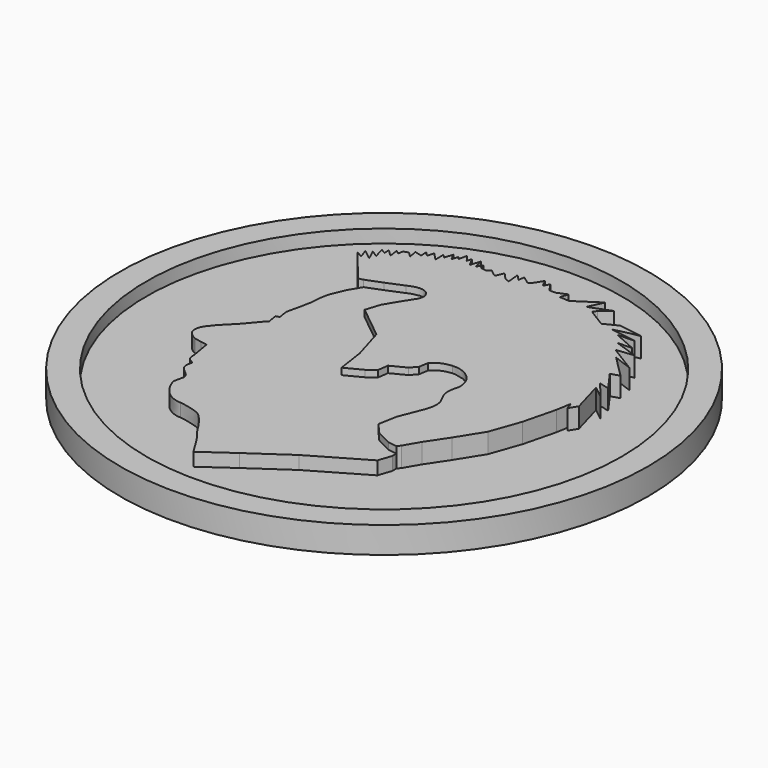
from build123d import *

# Parameters (mm, degrees)
EXTRUDE001_DEPTH  = 1.5
EXTRUDE_DEPTH     = 1
CYLINDER001_R     = 18
CYLINDER001_DEPTH = 2
CYLINDER_R        = 20
CYLINDER_DEPTH    = 2


with BuildPart() as extrude001:
    # Wire001 → Extrude001 (new body)
    with BuildSketch(Plane(origin=(21.008593, -16.806553, 0), x_dir=(0, 1, 0), z_dir=(0, 0, 1))):
        with BuildLine():
            add(Edge.make_bspline(
                [(-0.928441, -10.820515), (-0.313374, -11.198701)],
                knots=[0, 0, 2.558385, 2.558385], degree=1))
            add(Edge.make_bspline(
                [(-0.313374, -11.198701), (2.194207, -10.489603)],
                knots=[0, 0, 9.23355, 9.23355], degree=1))
            add(Edge.make_bspline(
                [(2.194207, -10.489603), (1.484514, -11.387793)],
                knots=[0, 0, 4.056132, 4.056132], degree=1))
            add(Edge.make_bspline(
                [(1.484514, -11.387793), (2.761956, -10.347784)],
                knots=[0, 0, 5.83676, 5.83676], degree=1))
            add(Edge.make_bspline(
                [(2.761956, -10.347784), (2.572715, -11.104154)],
                knots=[0, 0, 2.76266, 2.76266], degree=1))
            add(Edge.make_bspline(
                [(2.572715, -11.104154), (4.086722, -10.01687)],
                knots=[0, 0, 6.604635, 6.604635], degree=1))
            add(Edge.make_bspline(
                [(4.086722, -10.01687), (4.275983, -10.678695)],
                knots=[0, 0, 2.439053, 2.439053], degree=1))
            add(Edge.make_bspline(
                [(4.275983, -10.678695), (5.93193, -9.024136)],
                knots=[0, 0, 8.294462, 8.294462], degree=1))
            add(Edge.make_bspline(
                [(5.93193, -9.024136), (5.411478, -10.442331)],
                knots=[0, 0, 5.352794, 5.352794], degree=1))
            add(Edge.make_bspline(
                [(5.411478, -10.442331), (6.688937, -8.362314)],
                knots=[0, 0, 8.649135, 8.649135], degree=1))
            add(Edge.make_bspline(
                [(6.688937, -8.362314), (6.830884, -9.685961)],
                knots=[0, 0, 4.716981, 4.716981], degree=1))
            add(Edge.make_bspline(
                [(6.830884, -9.685961), (7.44595, -7.936858)],
                knots=[0, 0, 6.569629, 6.569629], degree=1))
            add(Edge.make_bspline(
                [(7.44595, -7.936858), (7.493254, -8.976864)],
                knots=[0, 0, 3.68887, 3.68887], degree=1))
            add(Edge.make_bspline(
                [(7.493254, -8.976864), (8.250264, -7.275033)],
                knots=[0, 0, 6.599778, 6.599778], degree=1))
            add(Edge.make_bspline(
                [(8.250264, -7.275033), (8.297584, -8.504133)],
                knots=[0, 0, 4.358306, 4.358306], degree=1))
            add(Edge.make_bspline(
                [(8.297584, -8.504133), (8.297584, -8.504133), (8.534146, -6.802299), (8.581452, -6.613208)],
                knots=[0, 0, 0, 0, 1, 1, 1, 1], degree=3))
            add(Edge.make_bspline(
                [(8.581452, -6.613208), (8.628772, -6.424116), (9.007274, -8.456858), (9.007274, -8.456858)],
                knots=[0, 0, 0, 0, 1, 1, 1, 1], degree=3))
            add(Edge.make_bspline(
                [(9.007274, -8.456858), (9.291142, -6.660483)],
                knots=[0, 0, 6.444092, 6.444092], degree=1))
            add(Edge.make_bspline(
                [(9.291142, -6.660483), (8.770713, -5.620471)],
                knots=[0, 0, 4.120716, 4.120716], degree=1))
            add(Edge.make_bspline(
                [(8.770713, -5.620471), (9.622344, -4.249551)],
                knots=[0, 0, 5.718569, 5.718569], degree=1))
            add(Edge.make_bspline(
                [(9.622344, -4.249551), (9.906208, -4.438646)],
                knots=[0, 0, 1.208553, 1.208553], degree=1))
            add(Edge.make_bspline(
                [(9.906208, -4.438646), (10.521281, -5.195013)],
                knots=[0, 0, 3.454324, 3.454324], degree=1))
            add(Edge.make_bspline(
                [(10.521281, -5.195013), (9.906208, -3.587729)],
                knots=[0, 0, 6.097861, 6.097861], degree=1))
            add(Edge.make_bspline(
                [(9.906208, -3.587729), (11.041729, -4.107729)],
                knots=[0, 0, 4.425317, 4.425317], degree=1))
            add(Edge.make_bspline(
                [(11.041729, -4.107729), (9.858908, -2.311356)],
                knots=[0, 0, 7.621012, 7.621012], degree=1))
            add(Edge.make_bspline(
                [(9.858908, -2.311356), (9.906208, -1.578623)],
                knots=[0, 0, 2.601704, 2.601704], degree=1))
            add(Edge.make_bspline(
                [(9.906208, -1.578623), (10.497628, -1.767712)],
                knots=[0, 0, 2.200081, 2.200081], degree=1))
            add(Edge.make_bspline(
                [(10.497628, -1.767712), (10.190096, -1.034978)],
                knots=[0, 0, 2.815702, 2.815702], degree=1))
            add(Edge.make_bspline(
                [(10.190096, -1.034978), (10.190096, -0.562247)],
                knots=[0, 0, 1.67503, 1.67503], degree=1))
            add(Edge.make_bspline(
                [(10.190096, -0.562247), (10.828815, -0.113153)],
                knots=[0, 0, 2.766614, 2.766614], degree=1))
            add(Edge.make_bspline(
                [(10.828815, -0.113153), (10.403007, 0.123208)],
                knots=[0, 0, 1.725628, 1.725628], degree=1))
            add(Edge.make_bspline(
                [(10.403007, 0.123208), (10.970756, 0.406847)],
                knots=[0, 0, 2.248787, 2.248787], degree=1))
            add(Edge.make_bspline(
                [(10.970756, 0.406847), (10.970756, 0.406847), (10.16644, 0.855945), (10.16644, 0.997761)],
                knots=[0, 0, 0, 0, 1, 1, 1, 1], degree=3))
            add(Edge.make_bspline(
                [(10.16644, 0.997761), (10.16644, 1.139584), (10.213746, 1.16322), (10.213746, 1.16322)],
                knots=[0, 0, 0, 0, 1, 1, 1, 1], degree=3))
            add(Edge.make_bspline(
                [(10.213746, 1.16322), (10.568601, 1.635951)],
                knots=[0, 0, 2.09444, 2.09444], degree=1))
            add(Edge.make_bspline(
                [(10.568601, 1.635951), (10.095472, 1.706862)],
                knots=[0, 0, 1.695164, 1.695164], degree=1))
            add(Edge.make_bspline(
                [(10.095472, 1.706862), (10.544945, 2.13232)],
                knots=[0, 0, 2.192963, 2.192963], degree=1))
            add(Edge.make_bspline(
                [(10.544945, 2.13232), (9.575026, 2.037773)],
                knots=[0, 0, 3.45301, 3.45301], degree=1))
            add(Edge.make_bspline(
                [(9.575026, 2.037773), (9.74062, 2.415959)],
                knots=[0, 0, 1.462859, 1.462859], degree=1))
            add(Edge.make_bspline(
                [(9.74062, 2.415959), (10.23741, 2.865054)],
                knots=[0, 0, 2.372922, 2.372922], degree=1))
            add(Edge.make_bspline(
                [(10.23741, 2.865054), (9.669647, 3.125054)],
                knots=[0, 0, 2.212668, 2.212668], degree=1))
            add(Edge.make_bspline(
                [(9.669647, 3.125054), (9.693297, 3.243237)],
                knots=[0, 0, 0.427062, 0.427062], degree=1))
            add(Edge.make_bspline(
                [(9.693297, 3.243237), (10.071788, 3.715968)],
                knots=[0, 0, 2.145764, 2.145764], degree=1))
            add(Edge.make_bspline(
                [(10.071788, 3.715968), (9.835224, 3.999607)],
                knots=[0, 0, 1.308693, 1.308693], degree=1))
            add(Edge.make_bspline(
                [(9.835224, 3.999607), (9.906194, 4.401429)],
                knots=[0, 0, 1.445817, 1.445817], degree=1))
            add(Edge.make_bspline(
                [(9.906194, 4.401429), (10.261049, 4.495976)],
                knots=[0, 0, 1.301225, 1.301225], degree=1))
            add(Edge.make_bspline(
                [(10.261049, 4.495976), (9.811574, 4.755977)],
                knots=[0, 0, 1.839889, 1.839889], degree=1))
            add(Edge.make_bspline(
                [(9.811574, 4.755977), (10.544931, 4.921432)],
                knots=[0, 0, 2.663823, 2.663823], degree=1))
            add(Edge.make_bspline(
                [(10.544931, 4.921432), (9.787923, 5.157796)],
                knots=[0, 0, 2.81002, 2.81002], degree=1))
            add(Edge.make_bspline(
                [(9.787923, 5.157796), (10.450296, 5.512346)],
                knots=[0, 0, 2.662067, 2.662067], degree=1))
            add(Edge.make_bspline(
                [(10.450296, 5.512346), (10.095455, 5.63053)],
                knots=[0, 0, 1.325213, 1.325213], degree=1))
            add(Edge.make_bspline(
                [(10.095455, 5.63053), (10.615887, 6.008716)],
                knots=[0, 0, 2.279518, 2.279518], degree=1))
            add(Edge.make_bspline(
                [(10.615887, 6.008716), (9.953514, 6.150533)],
                knots=[0, 0, 2.400181, 2.400181], degree=1))
            add(Edge.make_bspline(
                [(9.953514, 6.150533), (10.190082, 6.315988)],
                knots=[0, 0, 1.022903, 1.022903], degree=1))
            add(Edge.make_bspline(
                [(10.190082, 6.315988), (9.693297, 6.45781)],
                knots=[0, 0, 1.830585, 1.830585], degree=1))
            add(Edge.make_bspline(
                [(9.693297, 6.45781), (10.213729, 6.741449)],
                knots=[0, 0, 2.100139, 2.100139], degree=1))
            add(Edge.make_bspline(
                [(10.213729, 6.741449), (9.598662, 6.930538)],
                knots=[0, 0, 2.280034, 2.280034], degree=1))
            add(Edge.make_bspline(
                [(9.598662, 6.930538), (9.835224, 7.190538)],
                knots=[0, 0, 1.245518, 1.245518], degree=1))
            add(Edge.make_bspline(
                [(9.835224, 7.190538), (9.054561, 7.166916)],
                knots=[0, 0, 2.767396, 2.767396], degree=1))
            add(Edge.make_bspline(
                [(9.054561, 7.166916), (9.64598, 7.734194)],
                knots=[0, 0, 2.903742, 2.903742], degree=1))
            add(Edge.make_bspline(
                [(9.64598, 7.734194), (9.125534, 7.876011)],
                knots=[0, 0, 1.911338, 1.911338], degree=1))
            add(Edge.make_bspline(
                [(9.125534, 7.876011), (9.480389, 8.183286)],
                knots=[0, 0, 1.663242, 1.663242], degree=1))
            add(Edge.make_bspline(
                [(9.480389, 8.183286), (8.93629, 8.159664)],
                knots=[0, 0, 1.929726, 1.929726], degree=1))
            add(Edge.make_bspline(
                [(8.93629, 8.159664), (9.078228, 8.703303)],
                knots=[0, 0, 1.990852, 1.990852], degree=1))
            add(Edge.make_bspline(
                [(9.078228, 8.703303), (8.415841, 8.58512)],
                knots=[0, 0, 2.384105, 2.384105], degree=1))
            add(Edge.make_bspline(
                [(8.415841, 8.58512), (8.794346, 8.963306)],
                knots=[0, 0, 1.895888, 1.895888], degree=1))
            add(Edge.make_bspline(
                [(8.794346, 8.963306), (8.676055, 9.317856)],
                knots=[0, 0, 1.324356, 1.324356], degree=1))
            add(Edge.make_bspline(
                [(8.676055, 9.317856), (8.297567, 9.388767)],
                knots=[0, 0, 1.364434, 1.364434], degree=1))
            add(Edge.make_bspline(
                [(8.297567, 9.388767), (8.510462, 9.672403)],
                knots=[0, 0, 1.256618, 1.256618], degree=1))
            add(Edge.make_bspline(
                [(8.510462, 9.672403), (7.777121, 9.55422)],
                knots=[0, 0, 2.631977, 2.631977], degree=1))
            add(Edge.make_bspline(
                [(7.777121, 9.55422), (8.2739, 10.074223)],
                knots=[0, 0, 2.548208, 2.548208], degree=1))
            add(Edge.make_bspline(
                [(8.2739, 10.074223), (7.848092, 10.050601)],
                knots=[0, 0, 1.51109, 1.51109], degree=1))
            add(Edge.make_bspline(
                [(7.848092, 10.050601), (8.061003, 10.428784)],
                knots=[0, 0, 1.537787, 1.537787], degree=1))
            add(Edge.make_bspline(
                [(8.061003, 10.428784), (7.209372, 10.192418)],
                knots=[0, 0, 3.131659, 3.131659], degree=1))
            add(Edge.make_bspline(
                [(7.209372, 10.192418), (7.564207, 10.712421)],
                knots=[0, 0, 2.230627, 2.230627], degree=1))
            add(Edge.make_bspline(
                [(7.564207, 10.712421), (6.736226, 10.33424)],
                knots=[0, 0, 3.22533, 3.22533], degree=1))
            add(Edge.make_bspline(
                [(6.736226, 10.33424), (7.351293, 11.114246)],
                knots=[0, 0, 3.519694, 3.519694], degree=1))
            add(Edge.make_bspline(
                [(7.351293, 11.114246), (6.617953, 10.854243)],
                knots=[0, 0, 2.756933, 2.756933], degree=1))
            add(Edge.make_bspline(
                [(6.617953, 10.854243), (6.946654, 11.387793)],
                knots=[0, 0, 2.220497, 2.220497], degree=1))
            add(Edge.make_bspline(
                [(6.946654, 11.387793), (5.140074, 9.916994)],
                knots=[0, 0, 8.254446, 8.254446], degree=1))
            add(Edge.make_bspline(
                [(5.140074, 9.916994), (4.30622, 9.244792)],
                knots=[0, 0, 3.795093, 3.795093], degree=1))
            add(Edge.make_bspline(
                [(4.30622, 9.244792), (4.397736, 8.882362)],
                knots=[0, 0, 1.324508, 1.324508], degree=1))
            add(Edge.make_bspline(
                [(4.397736, 8.882362), (4.857403, 7.693633)],
                knots=[0, 0, 4.515971, 4.515971], degree=1))
            add(Edge.make_bspline(
                [(4.857403, 7.693633), (5.371149, 6.450868)],
                knots=[0, 0, 4.764926, 4.764926], degree=1))
            add(Edge.make_bspline(
                [(5.371149, 6.450868), (5.371149, 6.450868), (5.884898, 5.505288), (5.425228, 4.991974)],
                knots=[0, 0, 0, 0, 1, 1, 1, 1], degree=3))
            add(Edge.make_bspline(
                [(5.425228, 4.991974), (4.965559, 4.478659), (4.370696, 4.937942), (4.370696, 4.937942)],
                knots=[0, 0, 0, 0, 1, 1, 1, 1], degree=3))
            add(Edge.make_bspline(
                [(4.370696, 4.937942), (3.559514, 5.451256)],
                knots=[0, 0, 3.401407, 3.401407], degree=1))
            add(Edge.make_bspline(
                [(3.559514, 5.451256), (2.532019, 6.072636)],
                knots=[0, 0, 4.254712, 4.254712], degree=1))
            add(Edge.make_bspline(
                [(2.532019, 6.072636), (1.423407, 6.423853)],
                knots=[0, 0, 4.120566, 4.120566], degree=1))
            add(Edge.make_bspline(
                [(1.423407, 6.423853), (-0.604545, 3.911311)],
                knots=[0, 0, 11.440802, 11.440802], degree=1))
            add(Edge.make_bspline(
                [(-0.604545, 3.911311), (-3.118705, 3.167672)],
                knots=[0, 0, 9.289952, 9.289952], degree=1))
            add(Edge.make_bspline(
                [(-3.118705, 3.167672), (-5.22187, 2.862017)],
                knots=[0, 0, 7.530448, 7.530448], degree=1))
            add(Edge.make_bspline(
                [(-5.22187, 2.862017), (-4.571799, 1.601181)],
                knots=[0, 0, 5.026378, 5.026378], degree=1))
            add(Edge.make_bspline(
                [(-4.571799, 1.601181), (-4.112929, 0.989862)],
                knots=[0, 0, 2.708424, 2.708424], degree=1))
            add(Edge.make_bspline(
                [(-4.112929, 0.989862), (-3.309902, 0.87524)],
                knots=[0, 0, 2.874209, 2.874209], degree=1))
            add(Edge.make_bspline(
                [(-3.309902, 0.87524), (-2.736308, -0.232767)],
                knots=[0, 0, 4.420892, 4.420892], degree=1))
            add(Edge.make_bspline(
                [(-2.736308, -0.232767), (-2.277434, -0.65305)],
                knots=[0, 0, 2.204844, 2.204844], degree=1))
            add(Edge.make_bspline(
                [(-2.277434, -0.65305), (-1.550887, -0.767671)],
                knots=[0, 0, 2.60622, 2.60622], degree=1))
            add(Edge.make_bspline(
                [(-1.550887, -0.767671), (-1.550887, -0.767671), (-1.01554, -1.149741), (-0.939058, -2.104922)],
                knots=[0, 0, 0, 0, 1, 1, 1, 1], degree=3))
            add(Edge.make_bspline(
                [(-0.939058, -2.104922), (-0.862581, -3.0601), (-1.550921, -4.193666), (-2.84881, -4.112617)],
                knots=[0, 0, 0, 0, 1, 1, 1, 1], degree=3))
            add(Edge.make_bspline(
                [(-2.84881, -4.112617), (-4.734026, -3.521209), (-4.384528, -4.973539), (-6.282805, -4.328749)],
                knots=[0, 0, 0, 0, 1, 1, 1, 1], degree=3))
            add(Edge.make_bspline(
                [(-6.282805, -4.328749), (-8.067401, -3.626317)],
                knots=[0, 0, 6.795571, 6.795571], degree=1))
            add(Edge.make_bspline(
                [(-8.067401, -3.626317), (-9.500486, -3.356151)],
                knots=[0, 0, 5.167306, 5.167306], degree=1))
            add(Edge.make_bspline(
                [(-9.500486, -3.356151), (-10.392785, -4.139631)],
                knots=[0, 0, 4.207502, 4.207502], degree=1))
            add(Edge.make_bspline(
                [(-10.392785, -4.139631), (-10.960613, -5.301346)],
                knots=[0, 0, 4.581715, 4.581715], degree=1))
            add(Edge.make_bspline(
                [(-10.960613, -5.301346), (-11.041729, -5.949743)],
                knots=[0, 0, 2.315379, 2.315379], degree=1))
            add(Edge.make_bspline(
                [(-11.041729, -5.949743), (-10.816855, -6.140477)],
                knots=[0, 0, 1.044814, 1.044814], degree=1))
            add(Edge.make_bspline(
                [(-10.816855, -6.140477), (-9.681334, -6.802299)],
                knots=[0, 0, 4.657012, 4.657012], degree=1))
            add(Edge.make_bspline(
                [(-9.681334, -6.802299), (-8.120013, -7.842311)],
                knots=[0, 0, 6.647217, 6.647217], degree=1))
            add(Edge.make_bspline(
                [(-8.120013, -7.842311), (-6.227498, -9.024136)],
                knots=[0, 0, 7.905881, 7.905881], degree=1))
            add(Edge.make_bspline(
                [(-6.227498, -9.024136), (-3.95647, -9.827778)],
                knots=[0, 0, 8.535921, 8.535921], degree=1))
            add(Edge.make_bspline(
                [(-3.95647, -9.827778), (-1.496207, -10.442331)],
                knots=[0, 0, 8.985322, 8.985322], degree=1))
            add(Edge.make_bspline(
                [(-1.496207, -10.442331), (-0.360694, -10.63142)],
                knots=[0, 0, 4.078874, 4.078874], degree=1))
            add(Edge.make_bspline(
                [(-0.360694, -10.63142), (-0.928441, -10.820515)],
                knots=[0, 0, 2.120345, 2.120345], degree=1))
        make_face()
    extrude(amount=EXTRUDE001_DEPTH)


with BuildPart() as extrude001_1:
    # Extrude001 placement: moved
    add(extrude001.part.moved(Location((-19.620052, 19.839128, 1))))


with BuildPart() as extrude_body:
    # Wire → Extrude (new body)
    with BuildSketch(Plane(origin=(17.310101, -23.132692, 0), x_dir=(0, -1, 0), z_dir=(0, 0, -1))):
        with BuildLine():
            add(Edge.make_bspline(
                [(2.278826, 7.593007), (0.835776, 7.841189)],
                knots=[0, 0, 5.188239, 5.188239], degree=1))
            add(Edge.make_bspline(
                [(0.835776, 7.841189), (0.752977, 8.313922)],
                knots=[0, 0, 1.700535, 1.700535], degree=1))
            add(Edge.make_bspline(
                [(0.752977, 8.313922), (0.634704, 8.881198)],
                knots=[0, 0, 2.053255, 2.053255], degree=1))
            add(Edge.make_bspline(
                [(0.634704, 8.881198), (0.634704, 8.881198), (0.374486, 9.460295), (-0.039511, 9.578478)],
                knots=[0, 0, 0, 0, 1, 1, 1, 1], degree=3))
            add(Edge.make_bspline(
                [(-0.039511, 9.578478), (-0.453492, 9.696661), (-0.879317, 9.424841), (-0.879317, 9.424841)],
                knots=[0, 0, 0, 0, 1, 1, 1, 1], degree=3))
            add(Edge.make_bspline(
                [(-0.879317, 9.424841), (-1.470719, 8.963927)],
                knots=[0, 0, 2.656768, 2.656768], degree=1))
            add(Edge.make_bspline(
                [(-1.470719, 8.963927), (-2.570742, 7.888465)],
                knots=[0, 0, 5.451018, 5.451018], degree=1))
            add(Edge.make_bspline(
                [(-2.570742, 7.888465), (-3.150334, 7.403915)],
                knots=[0, 0, 2.676813, 2.676813], degree=1))
            add(Edge.make_bspline(
                [(-3.150334, 7.403915), (-3.599809, 7.025728)],
                knots=[0, 0, 2.081385, 2.081385], degree=1))
            add(Edge.make_bspline(
                [(-3.599809, 7.025728), (-3.812709, 6.813002)],
                knots=[0, 0, 1.066404, 1.066404], degree=1))
            add(Edge.make_bspline(
                [(-3.812709, 6.813002), (-4.569717, 6.931183)],
                knots=[0, 0, 2.7148, 2.7148], degree=1))
            add(Edge.make_bspline(
                [(-4.569717, 6.931183), (-4.628862, 6.659362)],
                knots=[0, 0, 0.985679, 0.985679], degree=1))
            add(Edge.make_bspline(
                [(-4.628862, 6.659362), (-5.031017, 6.730273)],
                knots=[0, 0, 1.446942, 1.446942], degree=1))
            add(Edge.make_bspline(
                [(-5.031017, 6.730273), (-5.433178, 6.777546)],
                knots=[0, 0, 1.434791, 1.434791], degree=1))
            add(Edge.make_bspline(
                [(-5.433178, 6.777546), (-5.847176, 6.683)],
                knots=[0, 0, 1.504686, 1.504686], degree=1))
            add(Edge.make_bspline(
                [(-5.847176, 6.683), (-6.462231, 6.541179)],
                knots=[0, 0, 2.236515, 2.236515], degree=1))
            add(Edge.make_bspline(
                [(-6.462231, 6.541179), (-7.195589, 6.399361)],
                knots=[0, 0, 2.646656, 2.646656], degree=1))
            add(Edge.make_bspline(
                [(-7.195589, 6.399361), (-8.02357, 6.32845)],
                knots=[0, 0, 2.94453, 2.94453], degree=1))
            add(Edge.make_bspline(
                [(-8.02357, 6.32845), (-8.721435, 6.198448)],
                knots=[0, 0, 2.515289, 2.515289], degree=1))
            add(Edge.make_bspline(
                [(-8.721435, 6.198448), (-9.856936, 5.702081)],
                knots=[0, 0, 4.391047, 4.391047], degree=1))
            add(Edge.make_bspline(
                [(-9.856936, 5.702081), (-10.723887, 5.183851)],
                knots=[0, 0, 3.578857, 3.578857], degree=1))
            add(Edge.make_bspline(
                [(-10.723887, 5.183851), (-11.183557, 3.995119)],
                knots=[0, 0, 4.515988, 4.515988], degree=1))
            add(Edge.make_bspline(
                [(-11.183557, 3.995119), (-11.697305, 2.752356)],
                knots=[0, 0, 4.764918, 4.764918], degree=1))
            add(Edge.make_bspline(
                [(-11.697305, 2.752356), (-11.697305, 2.752356), (-12.211051, 1.806776), (-11.751383, 1.293462)],
                knots=[0, 0, 0, 0, 1, 1, 1, 1], degree=3))
            add(Edge.make_bspline(
                [(-11.751383, 1.293462), (-11.291713, 0.780146), (-10.696848, 1.239429), (-10.696848, 1.239429)],
                knots=[0, 0, 0, 0, 1, 1, 1, 1], degree=3))
            add(Edge.make_bspline(
                [(-10.696848, 1.239429), (-9.885668, 1.752742)],
                knots=[0, 0, 3.401396, 3.401396], degree=1))
            add(Edge.make_bspline(
                [(-9.885668, 1.752742), (-8.858174, 2.374125)],
                knots=[0, 0, 4.254715, 4.254715], degree=1))
            add(Edge.make_bspline(
                [(-8.858174, 2.374125), (-7.749561, 2.725341)],
                knots=[0, 0, 4.120574, 4.120574], degree=1))
            add(Edge.make_bspline(
                [(-7.749561, 2.725341), (-5.721607, 0.212797)],
                knots=[0, 0, 11.440808, 11.440808], degree=1))
            add(Edge.make_bspline(
                [(-5.721607, 0.212797), (-3.20745, -0.530838)],
                knots=[0, 0, 9.289939, 9.289939], degree=1))
            add(Edge.make_bspline(
                [(-3.20745, -0.530838), (-1.104285, -0.836497)],
                knots=[0, 0, 7.53045, 7.53045], degree=1))
            add(Edge.make_bspline(
                [(-1.104285, -0.836497), (-1.754355, -2.097334)],
                knots=[0, 0, 5.02638, 5.02638], degree=1))
            add(Edge.make_bspline(
                [(-1.754355, -2.097334), (-2.213226, -2.708649)],
                knots=[0, 0, 2.708415, 2.708415], degree=1))
            add(Edge.make_bspline(
                [(-2.213226, -2.708649), (-3.01625, -2.823272)],
                knots=[0, 0, 2.8742, 2.8742], degree=1))
            add(Edge.make_bspline(
                [(-3.01625, -2.823272), (-3.589841, -3.93128)],
                knots=[0, 0, 4.420892, 4.420892], degree=1))
            add(Edge.make_bspline(
                [(-3.589841, -3.93128), (-4.048717, -4.35156)],
                knots=[0, 0, 2.204843, 2.204843], degree=1))
            add(Edge.make_bspline(
                [(-4.048717, -4.35156), (-4.775265, -4.466182)],
                knots=[0, 0, 2.60622, 2.60622], degree=1))
            add(Edge.make_bspline(
                [(-4.775265, -4.466182), (-4.775265, -4.466182), (-5.310618, -4.848255), (-5.387094, -5.803435)],
                knots=[0, 0, 0, 0, 1, 1, 1, 1], degree=3))
            add(Edge.make_bspline(
                [(-5.387094, -5.803435), (-5.463574, -6.758617), (-4.775234, -7.892179), (-3.477345, -7.811131)],
                knots=[0, 0, 0, 0, 1, 1, 1, 1], degree=3))
            add(Edge.make_bspline(
                [(-3.477345, -7.811131), (-1.592123, -7.219723), (-1.941624, -8.672047), (-0.043349, -8.027259)],
                knots=[0, 0, 0, 0, 1, 1, 1, 1], degree=3))
            add(Edge.make_bspline(
                [(-0.043349, -8.027259), (1.741249, -7.324831)],
                knots=[0, 0, 6.795576, 6.795576], degree=1))
            add(Edge.make_bspline(
                [(1.741249, -7.324831), (3.174331, -7.054665)],
                knots=[0, 0, 5.167296, 5.167296], degree=1))
            add(Edge.make_bspline(
                [(3.174331, -7.054665), (4.06663, -7.838145)],
                knots=[0, 0, 4.207502, 4.207502], degree=1))
            add(Edge.make_bspline(
                [(4.06663, -7.838145), (4.634458, -8.999854)],
                knots=[0, 0, 4.581698, 4.581698], degree=1))
            add(Edge.make_bspline(
                [(4.634458, -8.999854), (4.715575, -9.648256)],
                knots=[0, 0, 2.315399, 2.315399], degree=1))
            add(Edge.make_bspline(
                [(4.715575, -9.648256), (5.0922, -9.656644)],
                knots=[0, 0, 1.334831, 1.334831], degree=1))
            add(Edge.make_bspline(
                [(5.0922, -9.656644), (6.099341, -9.318965)],
                knots=[0, 0, 3.763853, 3.763853], degree=1))
            add(Edge.make_bspline(
                [(6.099341, -9.318965), (8.464996, -5.253478)],
                knots=[0, 0, 16.666545, 16.666545], degree=1))
            add(Edge.make_bspline(
                [(8.464996, -5.253478), (10.452131, -2.369819)],
                knots=[0, 0, 12.408758, 12.408758], degree=1))
            add(Edge.make_bspline(
                [(10.452131, -2.369819), (12.037124, -0.124344)],
                knots=[0, 0, 9.738853, 9.738853], degree=1))
            add(Edge.make_bspline(
                [(12.037124, -0.124344), (10.688692, 0.702936)],
                knots=[0, 0, 5.605442, 5.605442], degree=1))
            add(Edge.make_bspline(
                [(10.688692, 0.702936), (9.884381, 1.317485)],
                knots=[0, 0, 3.586599, 3.586599], degree=1))
            add(Edge.make_bspline(
                [(9.884381, 1.317485), (9.222009, 1.742945)],
                knots=[0, 0, 2.789449, 2.789449], degree=1))
            add(Edge.make_bspline(
                [(9.222009, 1.742945), (9.222009, 1.742945), (8.512302, 2.215675), (8.133813, 2.641132)],
                knots=[0, 0, 0, 0, 1, 1, 1, 1], degree=3))
            add(Edge.make_bspline(
                [(8.133813, 2.641132), (7.755305, 3.066592), (7.589714, 4.413875), (7.589714, 4.413875)],
                knots=[0, 0, 0, 0, 1, 1, 1, 1], degree=3))
            add(Edge.make_bspline(
                [(7.589714, 4.413875), (7.589714, 4.413875), (7.637015, 5.028426), (7.069266, 5.642977)],
                knots=[0, 0, 0, 0, 1, 1, 1, 1], degree=3))
            add(Edge.make_bspline(
                [(7.069266, 5.642977), (6.501514, 6.257525), (5.697186, 6.446619), (5.697186, 6.446619)],
                knots=[0, 0, 0, 0, 1, 1, 1, 1], degree=3))
            add(Edge.make_bspline(
                [(5.697186, 6.446619), (4.935223, 6.276966)],
                knots=[0, 0, 2.765982, 2.765982], degree=1))
            add(Edge.make_bspline(
                [(4.935223, 6.276966), (4.935223, 6.276966), (4.876684, 6.268604), (4.759587, 6.302053)],
                knots=[0, 0, 0, 0, 1, 1, 1, 1], degree=3))
            add(Edge.make_bspline(
                [(4.759587, 6.302053), (4.642499, 6.335479), (4.466849, 6.527685), (4.466849, 6.527685)],
                knots=[0, 0, 0, 0, 1, 1, 1, 1], degree=3))
            add(Edge.make_bspline(
                [(4.466849, 6.527685), (4.466849, 6.527685), (4.065391, 7.079231), (3.764285, 7.121017)],
                knots=[0, 0, 0, 0, 1, 1, 1, 1], degree=3))
            add(Edge.make_bspline(
                [(3.764285, 7.121017), (3.463188, 7.162799), (3.153732, 7.045805), (3.153732, 7.045805)],
                knots=[0, 0, 0, 0, 1, 1, 1, 1], degree=3))
            add(Edge.make_bspline(
                [(3.153732, 7.045805), (3.153732, 7.045805), (3.071314, 7.214822), (2.929373, 7.415732)],
                knots=[0, 0, 0, 0, 1, 1, 1, 1], degree=3))
            add(Edge.make_bspline(
                [(2.929373, 7.415732), (2.787447, 7.616644), (2.278826, 7.593007), (2.278826, 7.593007)],
                knots=[0, 0, 0, 0, 1, 1, 1, 1], degree=3))
        make_face()
    extrude(amount=-EXTRUDE_DEPTH)


with BuildPart() as extrude_body_1:
    # Extrude placement: moved
    add(extrude_body.part.moved(Location((-19.620052, 19.839128, 1))))


with BuildPart() as cilindro001:
    # Cylinder001 → Cylinder001 (new body)
    with BuildSketch(Plane.XY.offset(1)):
        Circle(CYLINDER001_R)
    extrude(amount=CYLINDER001_DEPTH)


with BuildPart() as fusion:
    # Cylinder → Cylinder (new body)
    with BuildSketch(Plane.XY):
        Circle(CYLINDER_R)
    extrude(amount=CYLINDER_DEPTH)

    # Cut: cut Cilindro001
    add(cilindro001.part, mode=Mode.SUBTRACT)

    # Fusion: union Extrude body
    add(extrude_body_1.part)


solid = Compound([extrude001_1.part, fusion.part])
